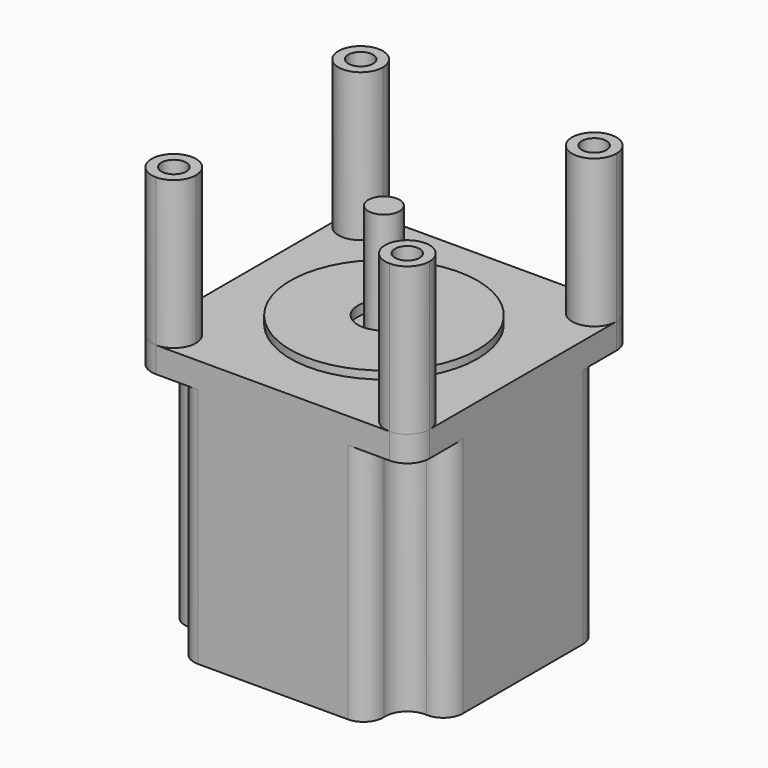
from build123d import *

# Parameters (mm, degrees)
F0_R      = 2.5
F1_DEPTH  = 5.2
F3_DEPTH  = 49
F4_R      = 19
F5_DEPTH  = 1.6
F6_R      = 5.3
F8_DEPTH  = 2
F9_R      = 3.15
F10_DEPTH = 21.6
F7_R      = 5.3
F11_DEPTH = 2
F12_R     = 2.5
F13_DEPTH = 30


with BuildPart() as f1:
    # F0 (on Top) → F1 (new body)
    with BuildSketch(Plane.XY):
        with BuildLine():
            Line((23.7, 28.2), (-23.7, 28.2))
            ThreePointArc((-23.7, 28.2), (-26.8819805153, 26.8819805153), (-28.2, 23.7))
            Line((-28.2, 23.7), (-28.2, -23.7))
            ThreePointArc((-28.2, -23.7), (-26.8819805153, -26.8819805153), (-23.7, -28.2))
            Line((-23.7, -28.2), (23.7, -28.2))
            ThreePointArc((23.7, -28.2), (26.8819805153, -26.8819805153), (28.2, -23.7))
            Line((28.2, -23.7), (28.2, 23.7))
            ThreePointArc((28.2, 23.7), (26.8819805153, 26.8819805153), (23.7, 28.2))
        make_face()
        with Locations((-23.7, -23.7)):
            Circle(F0_R, mode=Mode.SUBTRACT)
        with Locations((23.7, -23.7)):
            Circle(F0_R, mode=Mode.SUBTRACT)
        with Locations((-23.7, 23.7)):
            Circle(F0_R, mode=Mode.SUBTRACT)
        with Locations((23.7, 23.7)):
            Circle(F0_R, mode=Mode.SUBTRACT)
    extrude(amount=F1_DEPTH)

    # F2 (on face) → F3 (join)
    with BuildSketch(Plane(origin=(0, 0, 0), x_dir=(1, 0, 0), z_dir=(0, 0, -1))):
        with BuildLine():
            ThreePointArc((-19.2077922136, -23.9647058824), (-18.1251461262, -26.9439773623), (-15.2147186258, -28.2))
            Line((-15.2147186258, -28.2), (15.2147186258, -28.2))
            ThreePointArc((15.2147186258, -28.2), (18.1251461262, -26.9439773623), (19.2077922136, -23.9647058824))
            ThreePointArc((19.2077922136, -23.9647058824), (20.5180194847, -20.5180194847), (23.9647058824, -19.2077922136))
            ThreePointArc((23.9647058824, -19.2077922136), (26.9439773623, -18.1251461262), (28.2, -15.2147186258))
            Line((28.2, -15.2147186258), (28.2, 15.2147186258))
            ThreePointArc((28.2, 15.2147186258), (26.9439773623, 18.1251461262), (23.9647058824, 19.2077922136))
            ThreePointArc((23.9647058824, 19.2077922136), (20.5180194847, 20.5180194847), (19.2077922136, 23.9647058824))
            ThreePointArc((19.2077922136, 23.9647058824), (18.1251461262, 26.9439773623), (15.2147186258, 28.2))
            Line((15.2147186258, 28.2), (-15.2147186258, 28.2))
            ThreePointArc((-15.2147186258, 28.2), (-18.1251461262, 26.9439773623), (-19.2077922136, 23.9647058824))
            ThreePointArc((-19.2077922136, 23.9647058824), (-20.5180194847, 20.5180194847), (-23.9647058824, 19.2077922136))
            ThreePointArc((-23.9647058824, 19.2077922136), (-26.9439773623, 18.1251461262), (-28.2, 15.2147186258))
            Line((-28.2, 15.2147186258), (-28.2, -15.2147186258))
            ThreePointArc((-28.2, -15.2147186258), (-26.9439773623, -18.1251461262), (-23.9647058824, -19.2077922136))
            ThreePointArc((-23.9647058824, -19.2077922136), (-20.5180194847, -20.5180194847), (-19.2077922136, -23.9647058824))
        make_face()
    extrude(amount=F3_DEPTH)

    # F4 (on face) → F5 (join)
    with BuildSketch(Plane.XY.offset(5.2)):
        Circle(F4_R)
    extrude(amount=F5_DEPTH)

    # F6 (on face) → F8 (cut)
    with BuildSketch(Plane.XY.offset(6.8)):
        Circle(F6_R)
    extrude(amount=-F8_DEPTH, mode=Mode.SUBTRACT)

    # F9 (on face) → F10 (join)
    with BuildSketch(Plane.XY.offset(4.8)):
        Circle(F9_R)
    extrude(amount=F10_DEPTH)

    # F7 (on face) → F11 (cut)
    with BuildSketch(Plane(origin=(0, 0, -49), x_dir=(1, 0, 0), z_dir=(0, 0, -1))):
        Circle(F7_R)
    extrude(amount=-F11_DEPTH, mode=Mode.SUBTRACT)


with BuildPart() as f13:
    # F12 (on face) → F13 (new body)
    with BuildSketch(Plane.XY.offset(5.2)):
        with BuildLine():
            ThreePointArc((23.7, -28.2), (26.8819805153, -26.8819805153), (28.2, -23.7))
            ThreePointArc((28.2, -23.7), (20.5180194847, -20.5180194847), (23.7, -28.2))
        make_face()
        with Locations((23.7, -23.7)):
            Circle(F12_R, mode=Mode.SUBTRACT)
    extrude(amount=F13_DEPTH)


with BuildPart() as f13b:
    # F12 (on face) → F13, piece 2 (new body)
    with BuildSketch(Plane.XY.offset(5.2)):
        with BuildLine():
            ThreePointArc((-19.2, -23.7), (-23.7, -19.2), (-28.2, -23.7))
            ThreePointArc((-28.2, -23.7), (-26.8819805153, -26.8819805153), (-23.7, -28.2))
            ThreePointArc((-23.7, -28.2), (-20.5180194847, -26.8819805153), (-19.2, -23.7))
        make_face()
        with Locations((-23.7, -23.7)):
            Circle(F12_R, mode=Mode.SUBTRACT)
    extrude(amount=F13_DEPTH)


with BuildPart() as f13c:
    # F12 (on face) → F13, piece 3 (new body)
    with BuildSketch(Plane.XY.offset(5.2)):
        with BuildLine():
            ThreePointArc((-28.2, 23.7), (-23.7, 19.2), (-19.2, 23.7))
            ThreePointArc((-19.2, 23.7), (-20.5180194847, 26.8819805153), (-23.7, 28.2))
            ThreePointArc((-23.7, 28.2), (-26.8819805153, 26.8819805153), (-28.2, 23.7))
        make_face()
        with Locations((-23.7, 23.7)):
            Circle(F12_R, mode=Mode.SUBTRACT)
    extrude(amount=F13_DEPTH)


with BuildPart() as f13d:
    # F12 (on face) → F13, piece 4 (new body)
    with BuildSketch(Plane.XY.offset(5.2)):
        with BuildLine():
            ThreePointArc((28.2, 23.7), (26.8819805153, 26.8819805153), (23.7, 28.2))
            ThreePointArc((23.7, 28.2), (20.5180194847, 20.5180194847), (28.2, 23.7))
        make_face()
        with Locations((23.7, 23.7)):
            Circle(F12_R, mode=Mode.SUBTRACT)
    extrude(amount=F13_DEPTH)


solid = Compound([f1.part, f13.part, f13b.part, f13c.part, f13d.part])
